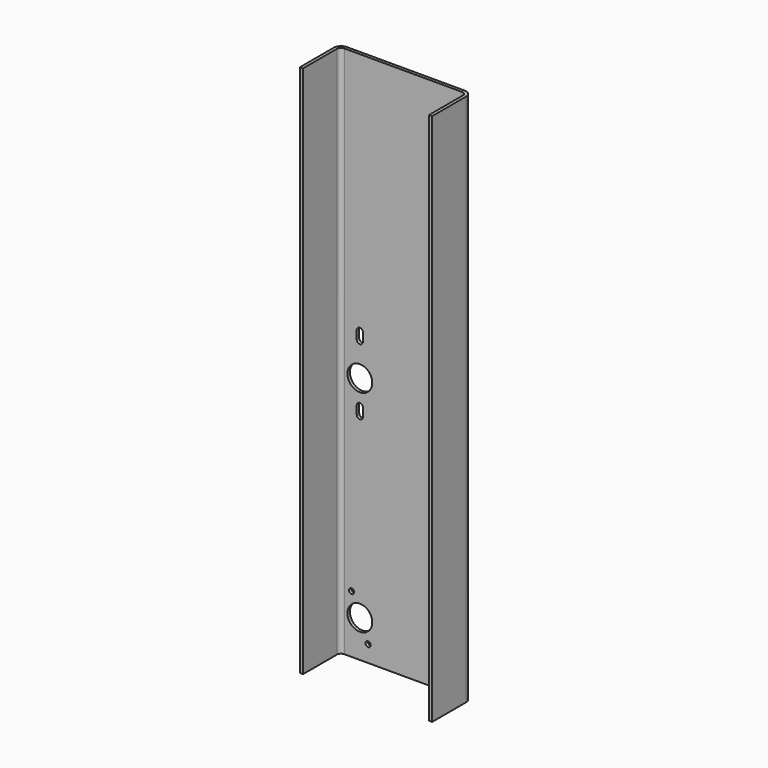
from build123d import *

# Parameters (mm, degrees)
F1_DEPTH = 819.15
F2_R     = 5.1562
F2_R_2   = 3.9751
F2_R_3   = 19.05
F3_DEPTH = 76.201


with BuildPart() as f1:
    # F0 (on Top) → F1 (new body)
    with BuildSketch(Plane.XY):
        with BuildLine():
            ThreePointArc((101.6, 26.9748), (98.341504, 34.841504), (90.4748, 38.1))
            Line((90.4748, 38.1), (-90.4748, 38.1))
            ThreePointArc((-90.4748, 38.1), (-98.341504, 34.841504), (-101.6, 26.9748))
            Line((-101.6, 26.9748), (-101.6, -38.1))
            Line((-101.6, -38.1), (-96.8248, -38.1))
            Line((-96.8248, -38.1), (-96.8248, 26.9748))
            ThreePointArc((-96.8248, 26.9748), (-94.964928, 31.464928), (-90.4748, 33.3248))
            Line((-90.4748, 33.3248), (90.4748, 33.3248))
            ThreePointArc((90.4748, 33.3248), (94.964928, 31.464928), (96.8248, 26.9748))
            Line((96.8248, 26.9748), (96.8248, -38.1))
            Line((96.8248, -38.1), (101.6, -38.1))
            Line((101.6, -38.1), (101.6, 26.9748))
        make_face()
    extrude(amount=-F1_DEPTH)

    # F2 (on face) → F3 (cut, through all)
    with BuildSketch(Plane(origin=(0, 38.1, 0), x_dir=(-1, 0, 0), z_dir=(0, 1, 0))):
        with Locations((-44.45, -209.55)):
            Circle(F2_R)
        with Locations((-44.45, -355.6)):
            Circle(F2_R)
        with Locations((-44.45, -501.65)):
            Circle(F2_R)
        with Locations((-44.45, -647.7)):
            Circle(F2_R)
        with Locations((-44.45, -793.75)):
            Circle(F2_R)
        with Locations((53.975, -793.75)):
            Circle(F2_R_2)
        with Locations((66.675, -762)):
            Circle(F2_R_3)
        with Locations((79.375, -730.25)):
            Circle(F2_R_2)
        with Locations((66.675, -438.15)):
            Circle(F2_R_3)
        with BuildLine():
            Line((71.417775, -488.516996), (71.417775, -476.683004))
            ThreePointArc((71.417775, -476.683004), (66.891726, -471.492434), (61.9125, -476.25))
            Line((61.9125, -476.25), (61.9125, -488.95))
            ThreePointArc((61.9125, -488.95), (66.458274, -493.707566), (71.417775, -489.383004))
            Line((71.417775, -489.383004), (71.417775, -488.516996))
        make_face()
        with BuildLine():
            Line((71.4375, -387.349087), (71.434985, -374.235116))
            ThreePointArc((71.434985, -374.235116), (66.691908, -369.871998), (61.918071, -374.201438))
            Line((61.918071, -374.201438), (61.918071, -375.098562))
            Line((61.918071, -375.098562), (61.918071, -387.119718))
            Line((61.918071, -387.119718), (61.918071, -387.580282))
            ThreePointArc((61.918071, -387.580282), (66.790631, -392.111096), (71.4375, -387.349087))
        make_face()
    extrude(amount=-F3_DEPTH, mode=Mode.SUBTRACT)


solid = f1.part
